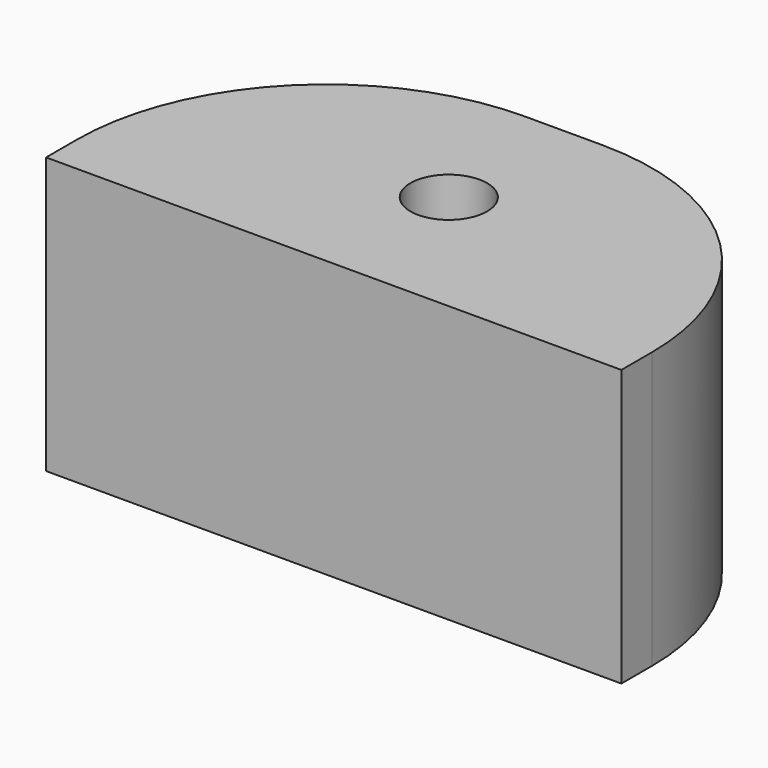
from build123d import *

# Parameters (mm, degrees)
F0_W     = 15
F0_H     = 14.4
F1_DEPTH = 15
F2_R     = 13
F3_R     = 1.999218
F4_DEPTH = 8.5


with BuildPart() as f1:
    # F0 (on Right) → F1 (new body, symmetric)
    with BuildSketch(Plane.YZ):
        with Locations((7.5, 8.768751)):
            Rectangle(F0_W, F0_H)
    extrude(amount=F1_DEPTH, both=True)

    # F2
    f2_edges = [f1.edges().sort_by_distance(p)[0] for p in [
        (-15, 15, 8.768751),
        (15, 15, 8.768751),
    ]]
    fillet(f2_edges, radius=F2_R)

    # F3 (on face) → F4 (cut)
    with BuildSketch(Plane.XY.offset(15.968751)):
        with Locations((0, 7.5)):
            Circle(F3_R)
    extrude(amount=-F4_DEPTH, mode=Mode.SUBTRACT)


solid = f1.part
